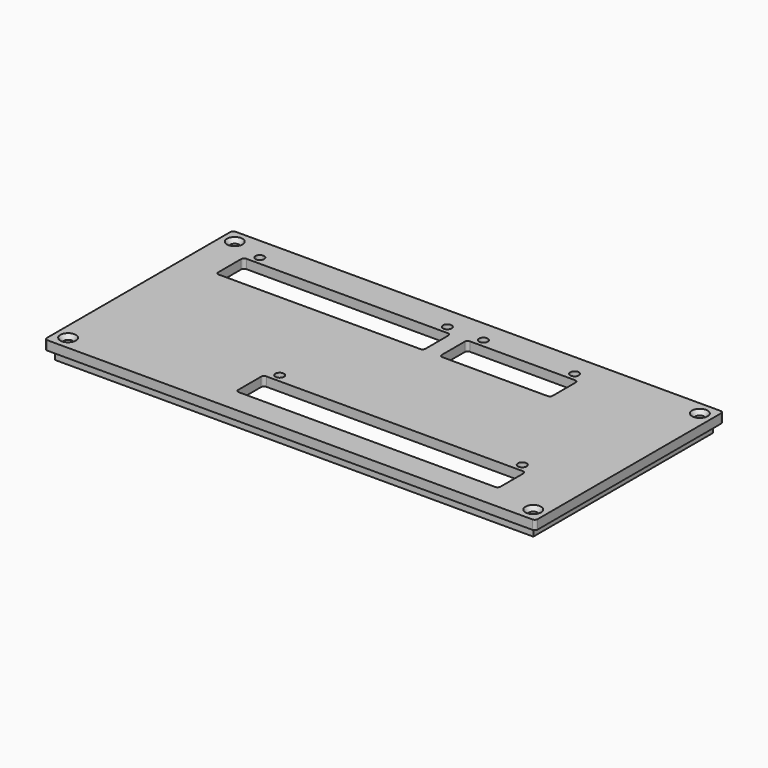
from build123d import *

# Parameters (mm, degrees)
F0_R           = 1.1938
F1_DEPTH       = 2.54
F2_W           = 132.4737
F2_H           = 62.23
F3_DEPTH       = 2.54
F4_D           = 2.3876
F4_CSINK_D     = 4.318
F4_CSINK_ANGLE = 82


with BuildPart() as f1:
    # F0 (on Top) → F1 (new body)
    with BuildSketch(Plane.XY):
        with BuildLine():
            ThreePointArc((-763.551821, 381.242233), (-763.784305, 381.803499), (-764.345571, 382.035983))
            Line((-764.345571, 382.035983), (-898.635371, 382.035983))
            ThreePointArc((-898.635371, 382.035983), (-899.196637, 381.803499), (-899.429121, 381.242233))
            Line((-899.429121, 381.242233), (-899.429121, 317.729533))
            ThreePointArc((-899.429121, 317.729533), (-899.196637, 317.168267), (-898.635371, 316.935783))
            Line((-898.635371, 316.935783), (-764.345571, 316.935783))
            ThreePointArc((-764.345571, 316.935783), (-763.784305, 317.168267), (-763.551821, 317.729533))
            Line((-763.551821, 317.729533), (-763.551821, 381.242233))
        make_face()
        with Locations((-849.200621, 335.528583)):
            Circle(F0_R, mode=Mode.SUBTRACT)
        with BuildLine():
            ThreePointArc((-780.118971, 333.293383), (-779.557705, 333.060899), (-779.325221, 332.499633))
            Line((-779.325221, 332.499633), (-779.325221, 324.574833))
            ThreePointArc((-779.325221, 324.574833), (-779.557705, 324.013567), (-780.118971, 323.781083))
            Line((-780.118971, 323.781083), (-851.124671, 323.781083))
            ThreePointArc((-851.124671, 323.781083), (-851.685937, 324.013567), (-851.918421, 324.574833))
            Line((-851.918421, 324.574833), (-851.918421, 332.499633))
            ThreePointArc((-851.918421, 332.499633), (-851.685937, 333.060899), (-851.124671, 333.293383))
            Line((-851.124671, 333.293383), (-780.118971, 333.293383))
        make_face(mode=Mode.SUBTRACT)
        with Locations((-782.043021, 335.528583)):
            Circle(F0_R, mode=Mode.SUBTRACT)
        with Locations((-886.970421, 375.863783)):
            Circle(F0_R, mode=Mode.SUBTRACT)
        with BuildLine():
            Line((-888.894471, 373.603183), (-833.128771, 373.603183))
            ThreePointArc((-833.128771, 373.603183), (-832.567505, 373.370699), (-832.335021, 372.809433))
            Line((-832.335021, 372.809433), (-832.335021, 364.884633))
            ThreePointArc((-832.335021, 364.884633), (-832.567505, 364.323367), (-833.128771, 364.090883))
            Line((-833.128771, 364.090883), (-888.894471, 364.090883))
            ThreePointArc((-888.894471, 364.090883), (-889.455737, 364.323367), (-889.688221, 364.884633))
            Line((-889.688221, 364.884633), (-889.688221, 372.809433))
            ThreePointArc((-889.688221, 372.809433), (-889.455737, 373.370699), (-888.894471, 373.603183))
        make_face(mode=Mode.SUBTRACT)
        with Locations((-835.052821, 375.863783)):
            Circle(F0_R, mode=Mode.SUBTRACT)
        with BuildLine():
            Line((-826.994671, 373.603183), (-797.898971, 373.603183))
            ThreePointArc((-797.898971, 373.603183), (-797.337705, 373.370699), (-797.105221, 372.809433))
            Line((-797.105221, 372.809433), (-797.105221, 364.884633))
            ThreePointArc((-797.105221, 364.884633), (-797.337705, 364.323367), (-797.898971, 364.090883))
            Line((-797.898971, 364.090883), (-826.994671, 364.090883))
            ThreePointArc((-826.994671, 364.090883), (-827.555937, 364.323367), (-827.788421, 364.884633))
            Line((-827.788421, 364.884633), (-827.788421, 372.809433))
            ThreePointArc((-827.788421, 372.809433), (-827.555937, 373.370699), (-826.994671, 373.603183))
        make_face(mode=Mode.SUBTRACT)
        with Locations((-825.070621, 375.863783)):
            Circle(F0_R, mode=Mode.SUBTRACT)
        with Locations((-799.823021, 375.863783)):
            Circle(F0_R, mode=Mode.SUBTRACT)
    extrude(amount=-F1_DEPTH)

    # F2 (on face) → F3 (join)
    with BuildSketch(Plane(origin=(0, 0, -2.54), x_dir=(1, 0, 0), z_dir=(0, 0, -1))):
        with Locations((-831.490471, -349.485883)):
            Rectangle(F2_W, F2_H)
        with BuildLine():
            ThreePointArc((-769.793631, -319.958383), (-769.219127, -322.459981), (-766.841121, -323.425971))
            Line((-766.841121, -323.425971), (-766.841121, -375.545795))
            ThreePointArc((-766.841121, -375.545795), (-769.219127, -376.511785), (-769.793631, -379.013383))
            Line((-769.793631, -379.013383), (-893.187311, -379.013383))
            ThreePointArc((-893.187311, -379.013383), (-893.761815, -376.511785), (-896.139821, -375.545795))
            Line((-896.139821, -375.545795), (-896.139821, -323.425971))
            ThreePointArc((-896.139821, -323.425971), (-893.761815, -322.459981), (-893.187311, -319.958383))
            Line((-893.187311, -319.958383), (-769.793631, -319.958383))
        make_face(mode=Mode.SUBTRACT)
    extrude(amount=F3_DEPTH)

    # F4 (through all)
    with Locations(Plane.XY):
        with Locations((-895.879471, 378.314883), (-767.101471, 378.314883), (-767.101471, 320.656883), (-895.879471, 320.656883)):
            CounterSinkHole(F4_D / 2, F4_CSINK_D / 2, counter_sink_angle=F4_CSINK_ANGLE)


solid = f1.part
